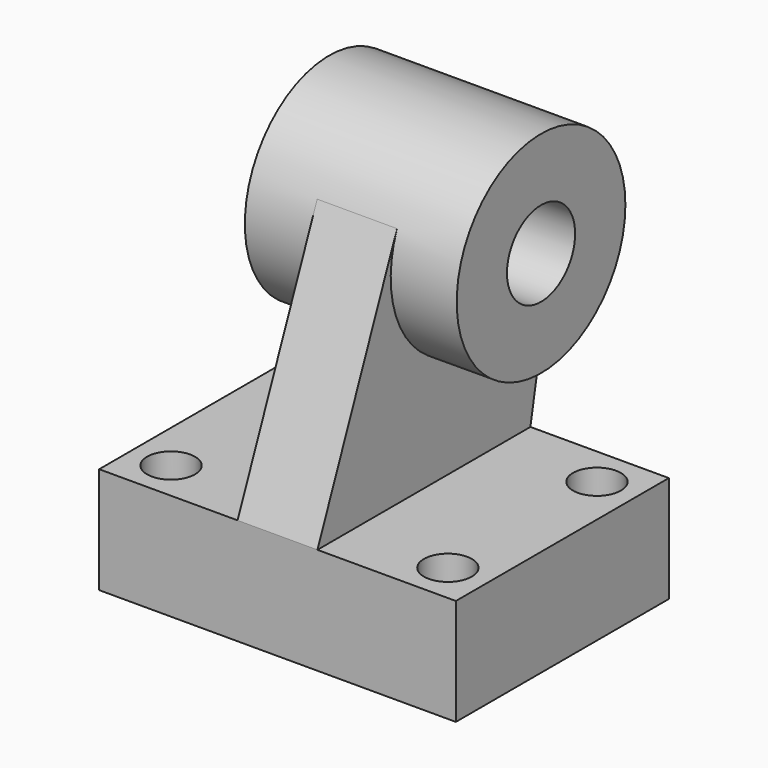
from build123d import *

# Parameters (mm, degrees)
F0_W     = 67
F0_H     = 50
F1_DEPTH = 20
F2_R     = 19.8
F3_DEPTH = 19.9
F4_R     = 8
F5_DEPTH = 53.401
F7_DEPTH = 7.5
F8_R     = 4.5
F9_DEPTH = 20


with BuildPart() as f1:
    # F0 (on Top) → F1 (new body)
    with BuildSketch(Plane.XY):
        Rectangle(F0_W, F0_H)
    extrude(amount=F1_DEPTH)



with BuildPart() as f3:
    # F2 (on Right) → F3 (new body, symmetric)
    with BuildSketch(Plane.YZ):
        with Locations((12, 58)):
            Circle(F2_R)
    extrude(amount=F3_DEPTH, both=True)

    # F4 (on face) → F5 (cut, through all)
    with BuildSketch(Plane(origin=(-19.9, 0, 0), x_dir=(0, -1, 0), z_dir=(-1, 0, 0))):
        with Locations((-12, 58)):
            Circle(F4_R)
    extrude(amount=-F5_DEPTH, mode=Mode.SUBTRACT)


with BuildPart() as f1_1:
    add(f1.part)

    add(f3.part)  # F7 merges F3
    # F6 (on Right) → F7 (join, symmetric)
    with BuildSketch(Plane.YZ):
        with BuildLine():
            Line((-6.3171015814, 65.5182304871), (-25, 20))
            Line((-25, 20), (25, 20))
            Line((25, 20), (31.4588096153, 54.3401190789))
            ThreePointArc((31.4588096153, 54.3401190789), (6.3818670386, 39.0137791536), (-6.3171015814, 65.5182304871))
        make_face()
    extrude(amount=F7_DEPTH, both=True)

    # F8 (on face) → F9 (cut, through all)
    with BuildSketch(Plane(origin=(0, 0, 0), x_dir=(1, 0, 0), z_dir=(0, 0, -1))):
        with Locations((-26, 17.5)):
            Circle(F8_R)
        with Locations((26, 17.5)):
            Circle(F8_R)
        with Locations((26, -17.5)):
            Circle(F8_R)
        with Locations((-26, -17.5)):
            Circle(F8_R)
    extrude(amount=-F9_DEPTH, mode=Mode.SUBTRACT)


solid = f1_1.part
